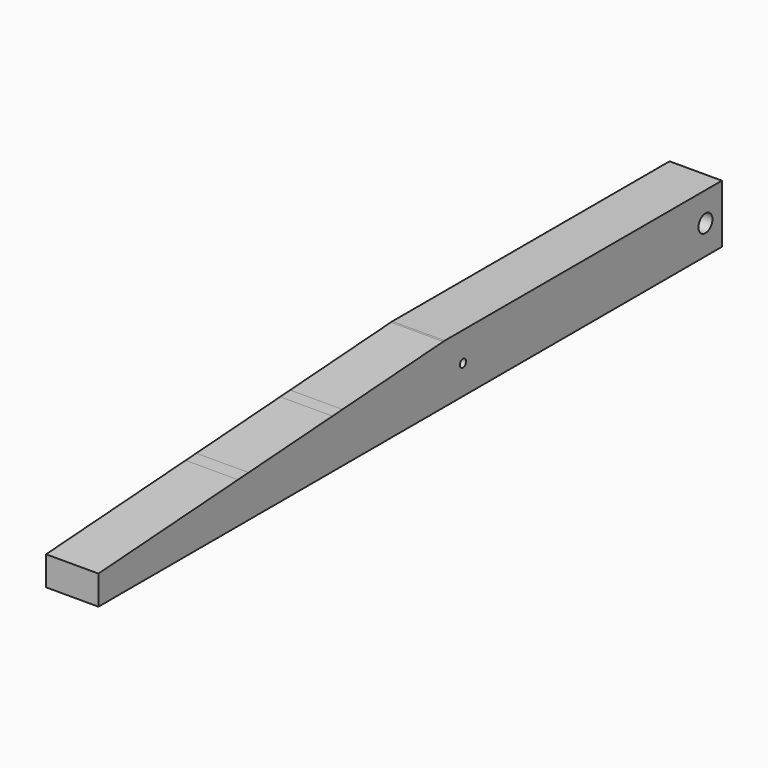
from build123d import *

# Parameters (mm, degrees)
F1_DEPTH = 15.24
F2_D     = 2.286
F2_DEPTH = 15.24
F2_TIP   = 0.6867836875
F3_D     = 5.08
F3_DEPTH = 15.24
F3_TIP   = 1.5261859723
F4_DEPTH = 15.24
F0_W     = 74.4793638587
F0_H     = 6.2680644915
F0_H_2   = 5.8993548155
F5_DEPTH = 15.24


with BuildPart() as f1:
    # F0 (on Right) → F1 (new body)
    with BuildSketch(Plane.YZ):
        Polygon((60.8523078263, 8.4471310302), (60.8523078263, -8.4803225473), (73.919005692, -8.4803225473), (73.919005692, -2.2122580558), (148.3983695507, -2.2122580558), (148.3983695507, -8.4803225473), (162.2249782085, -8.4803225473), (162.2249782085, 8.4803225473), (148.3983695507, 8.4803225473), (148.3983695507, 2.5809677318), (73.919005692, 2.5809677318), (73.919005692, 8.4803225473), (61.3453197977, 8.4803225473), align=None)
    extrude(amount=F1_DEPTH)

    # F2
    with Locations(Plane(origin=(0, 0, 0), x_dir=(0, 1, 0), z_dir=(-1, 0, 0))):
        with Locations((68.0196508765, 0)):
            Hole(F2_D / 2, depth=F2_DEPTH)
            with Locations((0, 0, -(F2_DEPTH + F2_TIP / 2))):  # 118° drill point
                Cone(0, F2_D / 2, F2_TIP, mode=Mode.SUBTRACT)

    # F3
    with Locations(Plane(origin=(0, 0, 0), x_dir=(0, 1, 0), z_dir=(-1, 0, 0))):
        with Locations((156.2374085188, 0)):
            Hole(F3_D / 2, depth=F3_DEPTH)
            with Locations((0, 0, -(F3_DEPTH + F3_TIP / 2))):  # 118° drill point
                Cone(0, F3_D / 2, F3_TIP, mode=Mode.SUBTRACT)

    # F0 (on Right) → F4 (join)
    with BuildSketch(Plane.YZ):
        Polygon((-64.6176040173, 0), (-64.6176040173, -8.4803225473), (-54.0782185303, -8.4803225473), (-54.0782185303, 0.7095531421), align=None)
        Polygon((-54.0782185303, 0.7095531421), (-54.0782185303, -8.4803225473), (-13.8418450952, -8.4803225473), (-13.8418450952, 3.4184250429), align=None)
        Polygon((-13.8418450952, 3.4184250429), (-13.8418450952, -8.4803225473), (-9.9811125547, -8.4803225473), (-9.9811125547, 3.6783448369), align=None)
        Polygon((-9.9811125547, 3.6783448369), (-9.9811125547, -8.4803225473), (20.5496044121, -8.4803225473), (20.5496044121, 5.7337935327), align=None)
        Polygon((24.1768896074, 5.9779967275), (24.1768896074, -8.4803225473), (60.8523078263, -8.4803225473), (60.8523078263, 8.4471310302), align=None)
        Polygon((20.5496044121, 5.7337935327), (20.5496044121, -8.4803225473), (24.1768896074, -8.4803225473), (24.1768896074, 5.9779967275), align=None)
    extrude(amount=F4_DEPTH)

    # F0 (on Right) → F5 (join)
    with BuildSketch(Plane.YZ):
        with Locations((111.1586876214, -5.3462903015)):
            Rectangle(F0_W, F0_H)
        with Locations((111.1586876214, 5.5306451395)):
            Rectangle(F0_W, F0_H_2)
    extrude(amount=F5_DEPTH)


solid = f1.part
